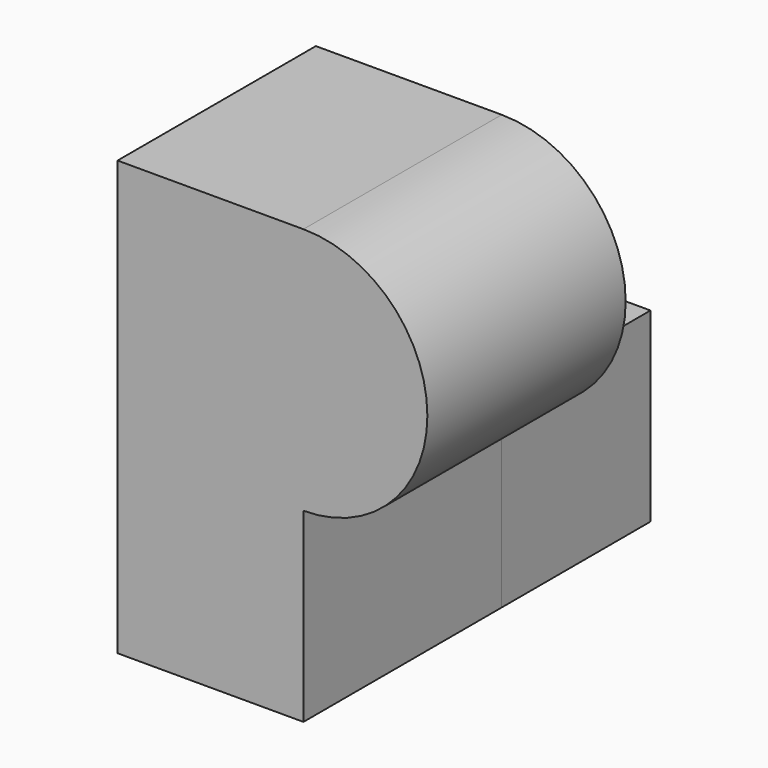
from build123d import *

# Parameters (mm, degrees)
F1_DEPTH = 25.4
F2_W     = 19.05
F2_H     = 19.05
F3_DEPTH = 19.05


with BuildPart() as f1:
    # F0 (on Front) → F1 (new body)
    with BuildSketch(Plane.XZ):
        with BuildLine():
            Line((-9.525, -22.225), (9.525, -22.225))
            Line((9.525, -22.225), (9.525, -3.175))
            ThreePointArc((9.525, -3.175), (22.225, 9.525), (9.525, 22.225))
            Line((9.525, 22.225), (-9.525, 22.225))
            Line((-9.525, 22.225), (-9.525, -22.225))
        make_face()
    extrude(amount=F1_DEPTH)


with BuildPart() as f3:
    # F2 (on face) → F3 (new body)
    with BuildSketch(Plane.YZ.offset(9.525)):
        with Locations((9.525, -12.7)):
            Rectangle(F2_W, F2_H)
    extrude(amount=-F3_DEPTH)


solid = Compound([f1.part, f3.part])
